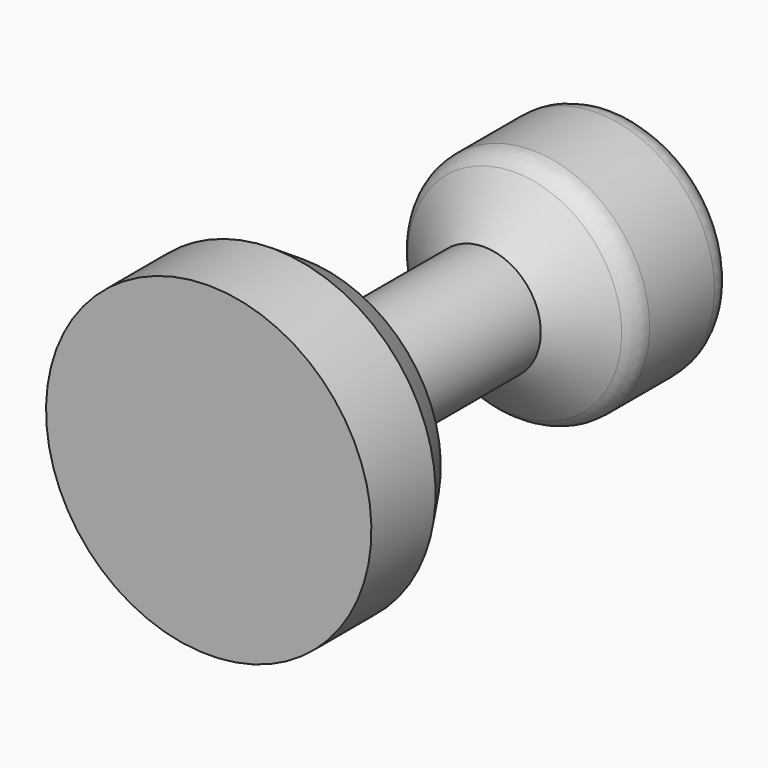
from build123d import *

# Parameters (mm, degrees)
F2_R    = 5.08
F3_SIZE = 5.08


with BuildPart() as f1:
    # F0 (on Right) → F1 (revolve)
    with BuildSketch(Plane.YZ):
        Polygon((-57.615455, 0), (46.00529, 0), (36.136646, 21.914188), (15.238347, 21.914188), (6.530722, 10.594275), (-29.170545, 10.594275), (-37.587918, 30.331559), (-57.615455, 30.331559), align=None)
    revolve(axis=Axis((0, 3.918434, 0), (0, -1, 0)))

    # F2
    f2_edges = [f1.edges().sort_by_distance(p)[0] for p in [
        (0, 36.136646, -21.914188),
        (0, 15.238347, -21.914188),
    ]]
    fillet(f2_edges, radius=F2_R)

    # F3
    f3_edges = [f1.edges().sort_by_distance(p)[0] for p in [
        (0, -37.587918, -30.331559),
    ]]
    chamfer(f3_edges, length=F3_SIZE)


solid = f1.part
